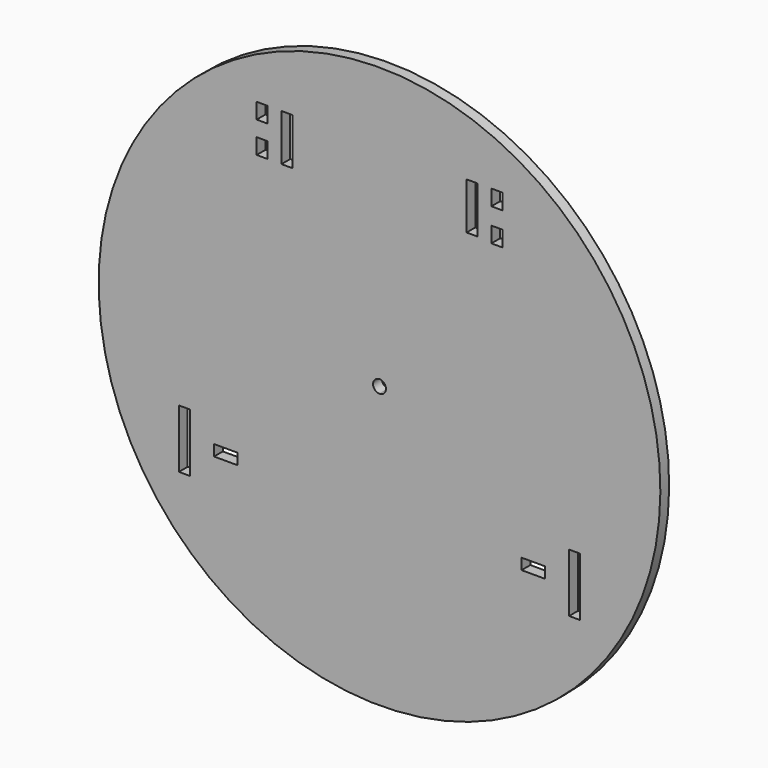
from build123d import *

# Parameters (mm, degrees)
F0_W     = 11.938
F0_H     = 17.018
F0_H_2   = 50.8
F0_H_3   = 63.5
F0_W_2   = 25.4
F0_H_4   = 11.938
F1_DEPTH = 11.938


with BuildPart() as f1:
    # F0 (on Front) → F1 (new body)
    with BuildSketch(Plane.XZ):
        with BuildLine():
            Line((0, 152.4), (263.9645430735, 152.4))
            ThreePointArc((263.9645430735, 152.4), (152.4, 263.9645430735), (0, 304.8))
            Line((0, 304.8), (0, 228.6))
            Line((0, 228.6), (0, 152.4))
        make_face()
        with Locations((127.381, 184.6740592089)):
            Rectangle(F0_W, F0_H, mode=Mode.SUBTRACT)
        with Locations((100.457, 203.2)):
            Rectangle(F0_W, F0_H_2, mode=Mode.SUBTRACT)
        with Locations((127.381, 220.091)):
            Rectangle(F0_W, F0_H, mode=Mode.SUBTRACT)
        with BuildLine():
            ThreePointArc((0, 304.8), (-152.4, 263.9645430735), (-263.9645430735, 152.4))
            Line((-263.9645430735, 152.4), (0, 152.4))
            Line((0, 152.4), (0, 228.6))
            Line((0, 228.6), (0, 304.8))
        make_face()
        with Locations((-127.381, 186.309)):
            Rectangle(F0_W, F0_H, mode=Mode.SUBTRACT)
        with Locations((-127.381, 220.091)):
            Rectangle(F0_W, F0_H, mode=Mode.SUBTRACT)
        with Locations((-100.457, 203.2)):
            Rectangle(F0_W, F0_H_2, mode=Mode.SUBTRACT)
        with BuildLine():
            ThreePointArc((-263.9645430735, 152.4), (-78.8880449472, -294.4141918529), (304.8, 0))
            ThreePointArc((304.8, 0), (294.4141918529, 78.8880449472), (263.9645430735, 152.4))
            Line((263.9645430735, 152.4), (0, 152.4))
            Line((0, 152.4), (-263.9645430735, 152.4))
        make_face()
        with Locations((-211.709, -120.65)):
            Rectangle(F0_W, F0_H_3, mode=Mode.SUBTRACT)
        with Locations((-166.878, -119.38)):
            Rectangle(F0_W_2, F0_H_4, mode=Mode.SUBTRACT)
        with Locations((166.878, -119.38)):
            Rectangle(F0_W_2, F0_H_4, mode=Mode.SUBTRACT)
        with Locations((211.709, -120.65)):
            Rectangle(F0_W, F0_H_3, mode=Mode.SUBTRACT)
        with BuildLine():
            ThreePointArc((0, -6.985), (-4.9391408666, 4.9391408666), (6.985, 0))
            ThreePointArc((6.985, 0), (4.9391408666, -4.9391408666), (0, -6.985))
        make_face(mode=Mode.SUBTRACT)
        with BuildLine():
            ThreePointArc((-263.9645430735, 152.4), (-78.8880449472, -294.4141918529), (304.8, 0))
            ThreePointArc((304.8, 0), (294.4141918529, 78.8880449472), (263.9645430735, 152.4))
            Line((263.9645430735, 152.4), (0, 152.4))
            Line((0, 152.4), (-263.9645430735, 152.4))
        make_face()
        with Locations((-211.709, -120.65)):
            Rectangle(F0_W, F0_H_3, mode=Mode.SUBTRACT)
        with Locations((-166.878, -119.38)):
            Rectangle(F0_W_2, F0_H_4, mode=Mode.SUBTRACT)
        with Locations((166.878, -119.38)):
            Rectangle(F0_W_2, F0_H_4, mode=Mode.SUBTRACT)
        with Locations((211.709, -120.65)):
            Rectangle(F0_W, F0_H_3, mode=Mode.SUBTRACT)
        with BuildLine():
            ThreePointArc((0, -6.985), (-4.9391408666, 4.9391408666), (6.985, 0))
            ThreePointArc((6.985, 0), (4.9391408666, -4.9391408666), (0, -6.985))
        make_face(mode=Mode.SUBTRACT)
    extrude(amount=F1_DEPTH)


solid = f1.part
